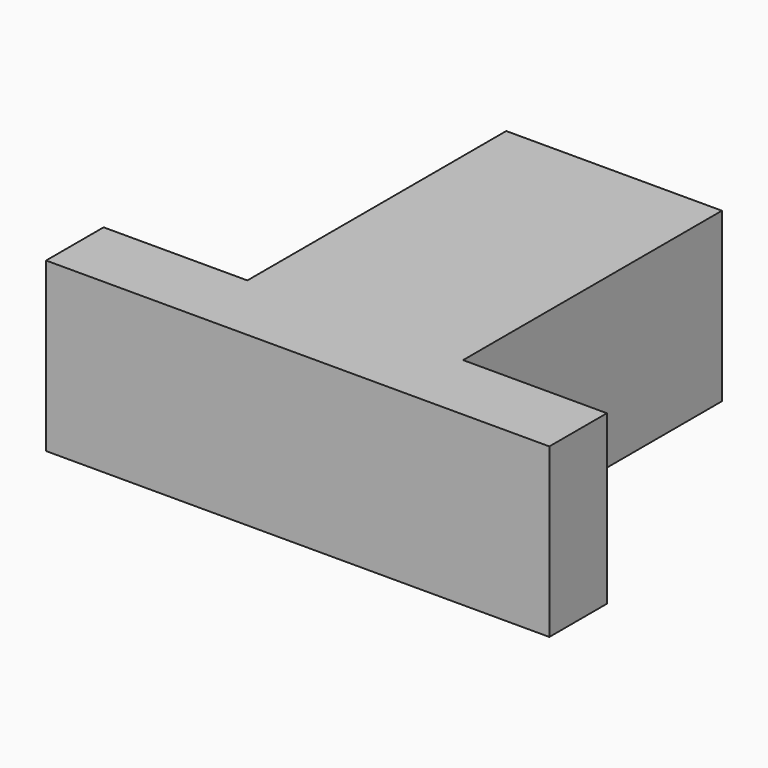
from build123d import *

# Parameters (mm, degrees)
BOX014_W     = 42
BOX014_H     = 6
BOX014_DEPTH = 14
BOX016_W     = 18
BOX016_H     = 27
BOX016_DEPTH = 14


with BuildPart() as cube009:
    # Box014 → Box014 (new body)
    with BuildSketch(Plane(origin=(-12, -6, 0), x_dir=(1, 0, 0), z_dir=(0, 0, 1))):
        with Locations((21, 3)):
            Rectangle(BOX014_W, BOX014_H)
    extrude(amount=BOX014_DEPTH)


with BuildPart() as fusion007006:
    # Box016 → Box016 (new body)
    with BuildSketch(Plane.XY):
        with Locations((9, 13.5)):
            Rectangle(BOX016_W, BOX016_H)
    extrude(amount=BOX016_DEPTH)

    # Fusion007006: union Cube009
    add(cube009.part)


solid = fusion007006.part
